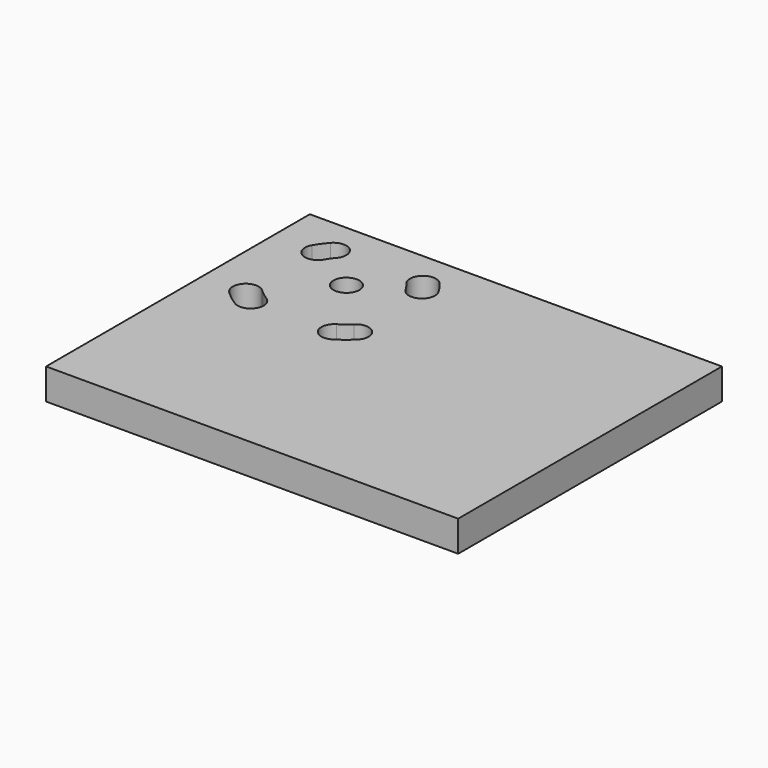
from build123d import *

# Parameters (mm, degrees)
F0_W     = 127
F0_H     = 101.6
F0_R     = 3.9878
F1_DEPTH = 9.525


with BuildPart() as f1:
    # F0 (on Top) → F1 (new body)
    with BuildSketch(Plane.XY):
        with Locations((63.5, 50.8)):
            Rectangle(F0_W, F0_H)
        with BuildLine():
            ThreePointArc((14.988244, 54.040302), (12.545255, 55.7418), (10.293505, 57.689338))
            ThreePointArc((10.293505, 57.689338), (10.180615, 63.345065), (15.836343, 63.457955))
            ThreePointArc((15.836343, 63.457955), (17.454745, 62.0582), (19.210594, 60.835283))
            ThreePointArc((19.210594, 60.835283), (20.496909, 55.326617), (14.988244, 54.040302))
        make_face(mode=Mode.SUBTRACT)
        with BuildLine():
            ThreePointArc((45.011756, 54.040302), (39.503091, 55.326617), (40.789406, 60.835283))
            ThreePointArc((40.789406, 60.835283), (42.545255, 62.0582), (44.163657, 63.457955))
            ThreePointArc((44.163657, 63.457955), (49.819385, 63.345065), (49.706495, 57.689338))
            ThreePointArc((49.706495, 57.689338), (47.454745, 55.7418), (45.011756, 54.040302))
        make_face(mode=Mode.SUBTRACT)
        with BuildLine():
            ThreePointArc((10.482321, 89.24346), (11.743749, 91.223108), (13.205196, 93.060056))
            ThreePointArc((13.205196, 93.060056), (18.85153, 93.404885), (19.19636, 87.758551))
            ThreePointArc((19.19636, 87.758551), (18.256251, 86.576892), (17.444809, 85.303439))
            ThreePointArc((17.444809, 85.303439), (11.993555, 83.792206), (10.482321, 89.24346))
        make_face(mode=Mode.SUBTRACT)
        with Locations((30, 78.198548)):
            Circle(F0_R, mode=Mode.SUBTRACT)
        with BuildLine():
            ThreePointArc((40.80364, 87.758551), (41.14847, 93.404885), (46.794804, 93.060056))
            ThreePointArc((46.794804, 93.060056), (48.256251, 91.223108), (49.517679, 89.24346))
            ThreePointArc((49.517679, 89.24346), (48.006445, 83.792206), (42.555191, 85.303439))
            ThreePointArc((42.555191, 85.303439), (41.743749, 86.576892), (40.80364, 87.758551))
        make_face(mode=Mode.SUBTRACT)
    extrude(amount=F1_DEPTH)


solid = f1.part
